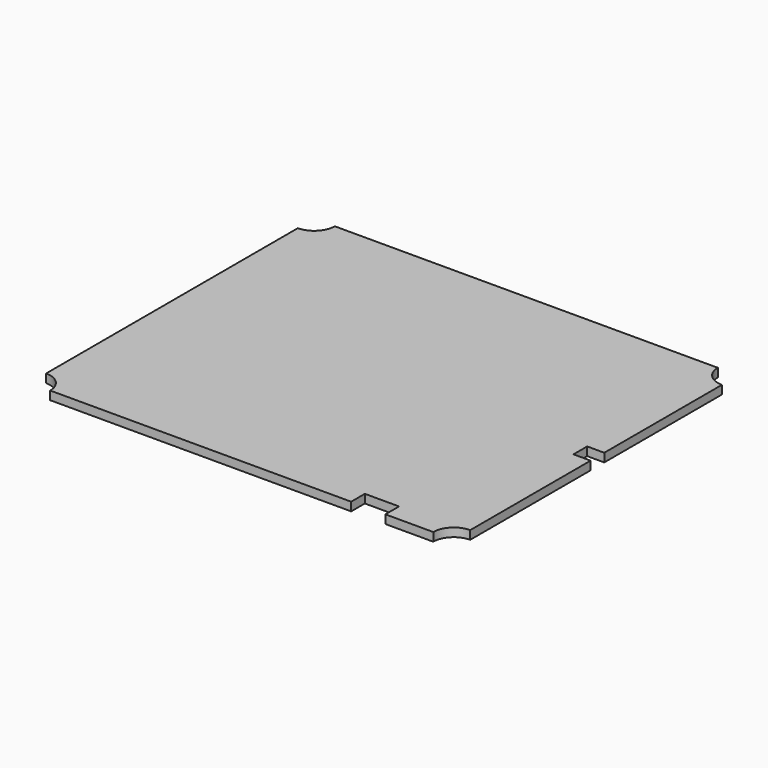
from build123d import *

# Parameters (mm, degrees)
F1_DEPTH = 1.5875


with BuildPart() as f1:
    # F0 (on Top) → F1 (new body)
    with BuildSketch(Plane.XY):
        with BuildLine():
            ThreePointArc((0, 3.81), (2.694077, 2.694077), (3.81, 0))
            Line((3.81, 0), (59.69, 0))
            Line((59.69, 0), (59.69, 3.175))
            Line((59.69, 3.175), (66.04, 3.175))
            Line((66.04, 3.175), (66.04, 0))
            Line((66.04, 0), (74.93, 0))
            ThreePointArc((74.93, 0), (76.045923, 2.694077), (78.74, 3.81))
            Line((78.74, 3.81), (78.74, 31.75))
            Line((78.74, 31.75), (75.565, 31.75))
            Line((75.565, 31.75), (75.565, 34.925))
            Line((75.565, 34.925), (78.74, 34.925))
            Line((78.74, 34.925), (78.74, 62.23))
            ThreePointArc((78.74, 62.23), (76.045923, 63.345923), (74.93, 66.04))
            Line((74.93, 66.04), (3.81, 66.04))
            ThreePointArc((3.81, 66.04), (2.694077, 63.345923), (0, 62.23))
            Line((0, 62.23), (0, 3.81))
        make_face()
    extrude(amount=F1_DEPTH)


solid = f1.part
